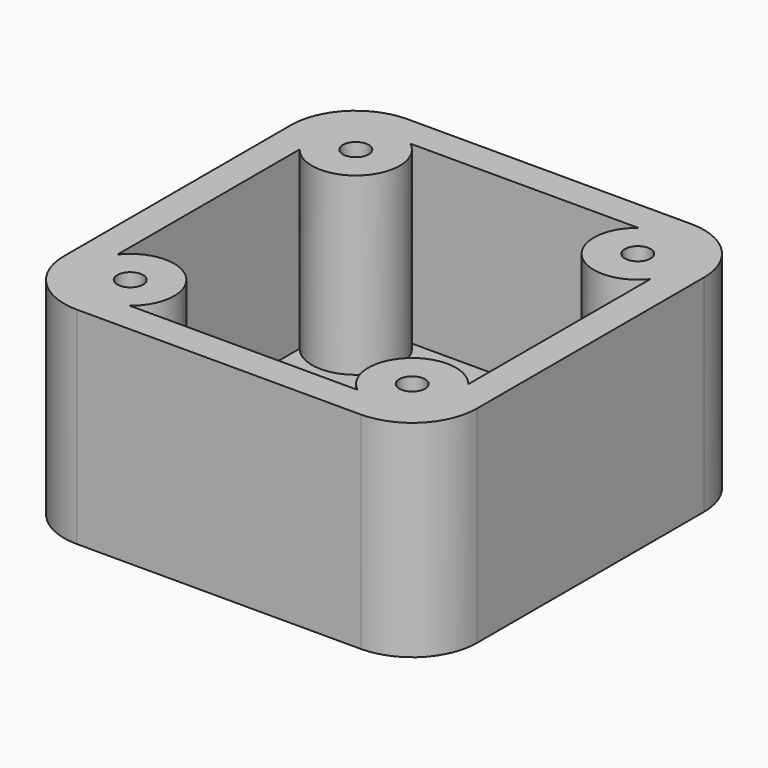
from build123d import *

# Parameters (mm, degrees)
F0_W     = 50.8
F0_H     = 50.8
F1_DEPTH = 25.4
F2_R     = 1.5875
F3_DEPTH = 25.4
F4_R     = 7.9375
F5_T     = -3.81


with BuildPart() as f1:
    # F0 (on Top) → F1 (new body)
    with BuildSketch(Plane.XY):
        Rectangle(F0_W, F0_H)
    extrude(amount=F1_DEPTH)

    # F2 (on face) → F3 (cut, through all)
    with BuildSketch(Plane.XY.offset(25.4)):
        with Locations((17.3482, 17.3482)):
            Circle(F2_R)
        with Locations((17.3482, -17.3482)):
            Circle(F2_R)
        with Locations((-17.3482, 17.3482)):
            Circle(F2_R)
        with Locations((-17.3482, -17.3482)):
            Circle(F2_R)
    extrude(amount=-F3_DEPTH, mode=Mode.SUBTRACT)

    # F4
    f4_edges = [f1.edges().sort_by_distance(p)[0] for p in [
        (25.4, -25.4, 12.7),
        (25.4, 25.4, 12.7),
        (-25.4, -25.4, 12.7),
        (-25.4, 25.4, 12.7),
    ]]
    fillet(f4_edges, radius=F4_R)

    # F5
    f5_openings = [f1.faces().sort_by_distance(p)[0] for p in [
        (0, 0, 25.4),
    ]]
    offset(amount=F5_T, openings=f5_openings, kind=Kind.INTERSECTION)


solid = f1.part
